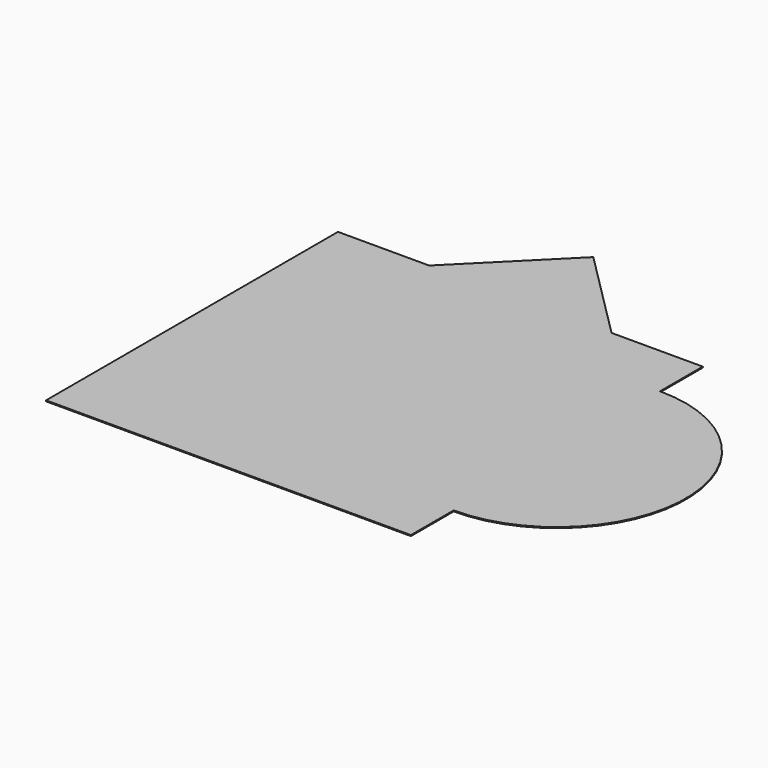
from build123d import *

# Parameters (mm, degrees)
F1_DEPTH = 0.2


with BuildPart() as f1:
    # F0 (on Top) → F1 (new body)
    with BuildSketch(Plane.XY):
        with BuildLine():
            Line((-18.75, 37.5), (-37.5, 37.5))
            Line((-37.5, 37.5), (-37.5, -37.5))
            Line((-37.5, -37.5), (37.5, -37.5))
            Line((37.5, -37.5), (37.5, -26.5165042945))
            ThreePointArc((37.5, -26.5165042945), (10.9834957055, 0), (37.5, 26.5165042945))
            Line((37.5, 26.5165042945), (37.5, 37.5))
            Line((37.5, 37.5), (18.75, 37.5))
            Line((18.75, 37.5), (-18.75, 37.5))
        make_face()
        Polygon((0, 56.25), (-18.75, 37.5), (18.75, 37.5), align=None)
        with BuildLine():
            ThreePointArc((37.5, 26.5165042945), (10.9834957055, 0), (37.5, -26.5165042945))
            Line((37.5, -26.5165042945), (37.5, 26.5165042945))
        make_face()
        with BuildLine():
            Line((37.5, 26.5165042945), (37.5, -26.5165042945))
            ThreePointArc((37.5, -26.5165042945), (56.25, -18.75), (64.0165042945, 0))
            ThreePointArc((64.0165042945, 0), (56.25, 18.75), (37.5, 26.5165042945))
        make_face()
    extrude(amount=F1_DEPTH)


solid = f1.part
